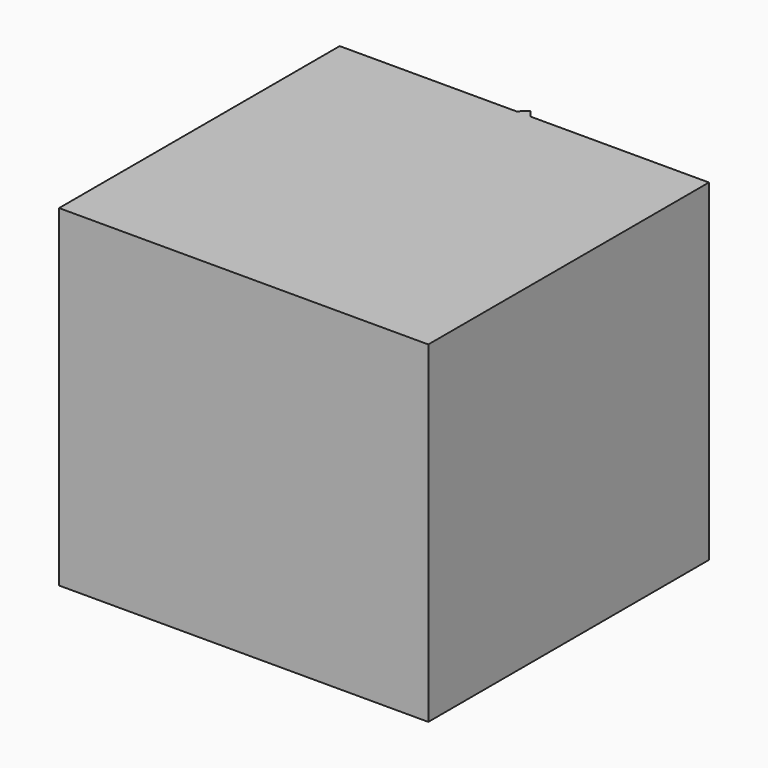
from build123d import *

# Parameters (mm, degrees)
F1_DEPTH = 914.4


with BuildPart() as f1:
    # F0 (on Top) → F1 (new body)
    with BuildSketch(Plane.XY):
        Polygon((-21.320406, 482.6), (-508, 482.6), (-508, -482.6), (508, -482.6), (508, 482.6), (17.440872, 482.6), (0, 482.6), align=None)
        Polygon((0, 503.362715), (-21.320406, 482.6), (0, 482.6), align=None)
        Polygon((0, 503.362715), (0, 482.6), (17.440872, 482.6), align=None)
    extrude(amount=F1_DEPTH)


solid = f1.part
